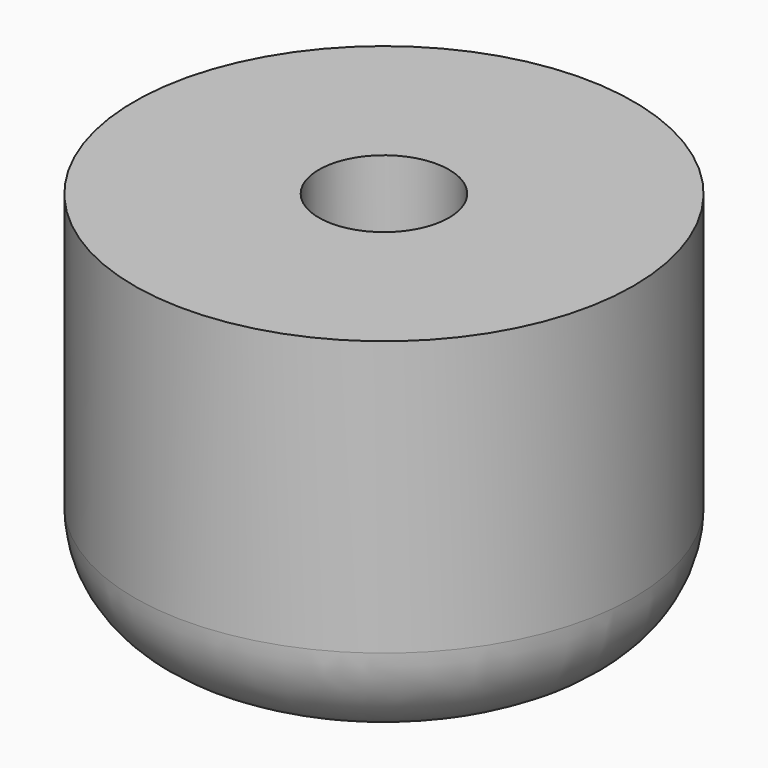
from build123d import *

# Parameters (mm, degrees)
F0_R     = 6.35
F0_R_2   = 0.5715
F1_DEPTH = 9.525
F2_R     = 1.655421
F2_R_2   = 0.5715
F3_DEPTH = 6.35
F4_R     = 2.54


with BuildPart() as f1:
    # F0 (on Top) → F1 (new body)
    with BuildSketch(Plane.XY):
        Circle(F0_R)
        Circle(F0_R_2, mode=Mode.SUBTRACT)
    extrude(amount=F1_DEPTH)

    # F2 (on face) → F3 (cut)
    with BuildSketch(Plane.XY.offset(9.525)):
        Circle(F2_R)
        Circle(F2_R_2, mode=Mode.SUBTRACT)
    extrude(amount=-F3_DEPTH, mode=Mode.SUBTRACT)

    # F4
    f4_edges = [f1.edges().sort_by_distance(p)[0] for p in [
        (-6.35, 0, 0),
    ]]
    fillet(f4_edges, radius=F4_R)


solid = f1.part
